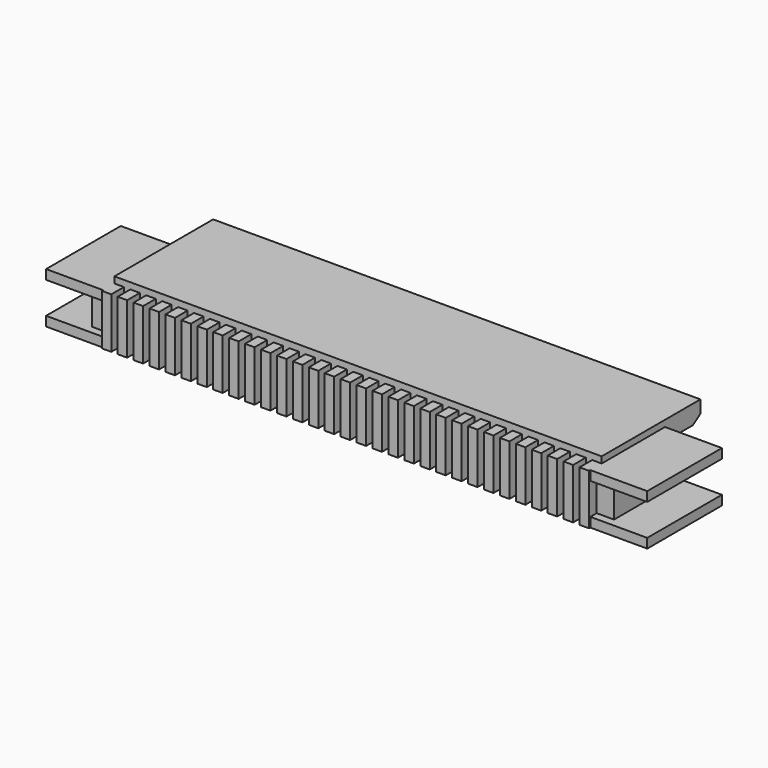
from build123d import *

# Parameters (mm, degrees)
PAD001_DEPTH = 0.3
PAD005_DEPTH = 2
PAD003_DEPTH = 0.3
SKETCH006_W  = 15.4
SKETCH006_H  = 0.8
PAD006_DEPTH = 3
PAD002_DEPTH = 2.1
PAD007_DEPTH = 16
PAD014_DEPTH = 1
PAD004_DEPTH = 1
PAD_DEPTH    = 2


with BuildPart() as body001:
    # Sketch001 → Pad001 (new body)
    with BuildSketch(Plane.XY):
        Polygon((-7.7, 2.2), (-7.7, -1.7), (7.7, -1.7), (7.7, 2.2), (9.5, 2.2), (9.5, -2.2), (-9.5, -2.2), (-9.5, 2.2), align=None)
    extrude(amount=PAD001_DEPTH)


with BuildPart() as body005:
    # Sketch005 → Pad005 (new body)
    with BuildSketch(Plane.XZ.offset(-0.8)):
        Polygon((-9.5, 0), (-9.5, 2.1), (-7.7, 2.1), (-7.7, 1.5), (7.7, 1.5), (7.7, 2.1), (9.5, 2.1), (9.5, 0), align=None)
    extrude(amount=-PAD005_DEPTH)


with BuildPart() as body003:
    # Sketch003 → Pad003 (new body)
    with BuildSketch(Plane.XY.offset(1.9)):
        Polygon((-7.7, 2.2), (-7.7, -1.7), (7.7, -1.7), (7.7, 2.2), (9.5, 2.2), (9.5, -2.2), (-9.5, -2.2), (-9.5, 2.2), align=None)
    extrude(amount=PAD003_DEPTH)


with BuildPart() as body006:
    # Sketch006 → Pad006 (new body)
    with BuildSketch(Plane.XZ.offset(1.2)):
        with Locations((0, 1.1)):
            Rectangle(SKETCH006_W, SKETCH006_H)
    extrude(amount=-PAD006_DEPTH)


with BuildPart() as body002:
    # Sketch002 → Pad002 (new body)
    with BuildSketch(Plane.XY):
        Polygon((-7.4, -1.7), (-7.196667, -1.7), (-7.196667, -2.2), (-6.896667, -2.2), (-6.896667, -1.7), (-6.693333, -1.7), (-6.693333, -2.2), (-6.393333, -2.2), (-6.393333, -1.7), (-6.19, -1.7), (-6.19, -2.2), (-5.89, -2.2), (-5.89, -1.7), (-5.686667, -1.7), (-5.686667, -2.2), (-5.386667, -2.2), (-5.386667, -1.7), (-5.183333, -1.7), (-5.183333, -2.2), (-4.883333, -2.2), (-4.883333, -1.7), (-4.68, -1.7), (-4.68, -2.2), (-4.38, -2.2), (-4.38, -1.7), (-4.176667, -1.7), (-4.176667, -2.2), (-3.876667, -2.2), (-3.876667, -1.7), (-3.673333, -1.7), (-3.673333, -2.2), (-3.373333, -2.2), (-3.373333, -1.7), (-3.17, -1.7), (-3.17, -2.2), (-2.87, -2.2), (-2.87, -1.7), (-2.666667, -1.7), (-2.666667, -2.2), (-2.366667, -2.2), (-2.366667, -1.7), (-2.163333, -1.7), (-2.163333, -2.2), (-1.863333, -2.2), (-1.863333, -1.7), (-1.66, -1.7), (-1.66, -2.2), (-1.36, -2.2), (-1.36, -1.7), (-1.156667, -1.7), (-1.156667, -2.2), (-0.856667, -2.2), (-0.856667, -1.7), (-0.653333, -1.7), (-0.653333, -2.2), (-0.353333, -2.2), (-0.353333, -1.7), (-0.15, -1.7), (-0.15, -2.2), (0.15, -2.2), (0.15, -1.7), (0.353333, -1.7), (0.353333, -2.2), (0.653333, -2.2), (0.653333, -1.7), (0.856667, -1.7), (0.856667, -2.2), (1.156667, -2.2), (1.156667, -1.7), (1.36, -1.7), (1.36, -2.2), (1.66, -2.2), (1.66, -1.7), (1.863333, -1.7), (1.863333, -2.2), (2.163333, -2.2), (2.163333, -1.7), (2.366667, -1.7), (2.366667, -2.2), (2.666667, -2.2), (2.666667, -1.7), (2.87, -1.7), (2.87, -2.2), (3.17, -2.2), (3.17, -1.7), (3.373333, -1.7), (3.373333, -2.2), (3.673333, -2.2), (3.673333, -1.7), (3.876667, -1.7), (3.876667, -2.2), (4.176667, -2.2), (4.176667, -1.7), (4.38, -1.7), (4.38, -2.2), (4.68, -2.2), (4.68, -1.7), (4.883333, -1.7), (4.883333, -2.2), (5.183333, -2.2), (5.183333, -1.7), (5.386667, -1.7), (5.386667, -2.2), (5.686667, -2.2), (5.686667, -1.7), (5.89, -1.7), (5.89, -2.2), (6.19, -2.2), (6.19, -1.7), (6.393333, -1.7), (6.393333, -2.2), (6.693333, -2.2), (6.693333, -1.7), (6.896667, -1.7), (6.896667, -2.2), (7.196667, -2.2), (7.196667, -1.7), (7.4, -1.7), (7.4, -2.2), (7.7, -2.2), (7.7, -2.15), (9.5, -2.15), (9.5, -2.7), (-9.5, -2.7), (-9.5, -2.15), (-7.7, -2.15), (-7.7, -2.2), (-7.4, -2.2), align=None)
    extrude(amount=PAD002_DEPTH)


with BuildPart() as body007:
    # Sketch007 → Pad007 (new body)
    with BuildSketch(Plane.YZ.offset(8)):
        Polygon((2.2, 1.5), (2.2, 1.7), (1.9, 1.5), align=None)
    extrude(amount=-PAD007_DEPTH)


with BuildPart() as body014:
    # Sketch014 → Pad014 (new body)
    with BuildSketch(Plane.XY.offset(0.6)):
        Polygon((-7.7, -1.9), (-9.5, -1.9), (-9.5, -2.7), (9.5, -2.7), (9.5, -1.9), (7.7, -1.9), (7.7, -2.6), (-7.7, -2.6), align=None)
    extrude(amount=PAD014_DEPTH)


with BuildPart() as fusion:
    # Sketch004 → Pad004 (new body)
    with BuildSketch(Plane.XY.offset(0.6)):
        Polygon((-7.4, -1.2), (-7.196667, -1.2), (-7.196667, 2.2), (-6.896667, 2.2), (-6.896667, -1.2), (-6.693333, -1.2), (-6.693333, 2.2), (-6.393333, 2.2), (-6.393333, -1.2), (-6.19, -1.2), (-6.19, 2.2), (-5.89, 2.2), (-5.89, -1.2), (-5.686667, -1.2), (-5.686667, 2.2), (-5.386667, 2.2), (-5.386667, -1.2), (-5.183333, -1.2), (-5.183333, 2.2), (-4.883333, 2.2), (-4.883333, -1.2), (-4.68, -1.2), (-4.68, 2.2), (-4.38, 2.2), (-4.38, -1.2), (-4.176667, -1.2), (-4.176667, 2.2), (-3.876667, 2.2), (-3.876667, -1.2), (-3.673333, -1.2), (-3.673333, 2.2), (-3.373333, 2.2), (-3.373333, -1.2), (-3.17, -1.2), (-3.17, 2.2), (-2.87, 2.2), (-2.87, -1.2), (-2.666667, -1.2), (-2.666667, 2.2), (-2.366667, 2.2), (-2.366667, -1.2), (-2.163333, -1.2), (-2.163333, 2.2), (-1.863333, 2.2), (-1.863333, -1.2), (-1.66, -1.2), (-1.66, 2.2), (-1.36, 2.2), (-1.36, -1.2), (-1.156667, -1.2), (-1.156667, 2.2), (-0.856667, 2.2), (-0.856667, -1.2), (-0.653333, -1.2), (-0.653333, 2.2), (-0.353333, 2.2), (-0.353333, -1.2), (-0.15, -1.2), (-0.15, 2.2), (0.15, 2.2), (0.15, -1.2), (0.353333, -1.2), (0.353333, 2.2), (0.653333, 2.2), (0.653333, -1.2), (0.856667, -1.2), (0.856667, 2.2), (1.156667, 2.2), (1.156667, -1.2), (1.36, -1.2), (1.36, 2.2), (1.66, 2.2), (1.66, -1.2), (1.863333, -1.2), (1.863333, 2.2), (2.163333, 2.2), (2.163333, -1.2), (2.366667, -1.2), (2.366667, 2.2), (2.666667, 2.2), (2.666667, -1.2), (2.87, -1.2), (2.87, 2.2), (3.17, 2.2), (3.17, -1.2), (3.373333, -1.2), (3.373333, 2.2), (3.673333, 2.2), (3.673333, -1.2), (3.876667, -1.2), (3.876667, 2.2), (4.176667, 2.2), (4.176667, -1.2), (4.38, -1.2), (4.38, 2.2), (4.68, 2.2), (4.68, -1.2), (4.883333, -1.2), (4.883333, 2.2), (5.183333, 2.2), (5.183333, -1.2), (5.386667, -1.2), (5.386667, 2.2), (5.686667, 2.2), (5.686667, -1.2), (5.89, -1.2), (5.89, 2.2), (6.19, 2.2), (6.19, -1.2), (6.393333, -1.2), (6.393333, 2.2), (6.693333, 2.2), (6.693333, -1.2), (6.896667, -1.2), (6.896667, 2.2), (7.196667, 2.2), (7.196667, -1.2), (7.4, -1.2), (7.4, 2.2), (8.25, 2.2), (8.25, -2.8), (9.5, -2.8), (9.5, 3.2), (-9.5, 3.2), (-9.5, -2.8), (-8.25, -2.8), (-8.25, 2.2), (-7.4, 2.2), align=None)
    extrude(amount=PAD004_DEPTH)

    # Fusion: union Body001, Body005, Body003, Body006, Body002, Body007, Body014
    add(body001.part)
    add(body005.part)
    add(body003.part)
    add(body006.part)
    add(body002.part)
    add(body007.part)
    add(body014.part)


with BuildPart() as cut:
    # Sketch → Pad (new body)
    with BuildSketch(Plane.XY.offset(0.1)):
        Polygon((-7.7, 2.2), (7.7, 2.2), (7.7, 0.8), (9.5, 0.8), (9.5, -2.2), (-9.5, -2.2), (-9.5, 0.8), (-7.7, 0.8), align=None)
    extrude(amount=PAD_DEPTH)

    # Cut: cut Fusion
    add(fusion.part, mode=Mode.SUBTRACT)


solid = cut.part
